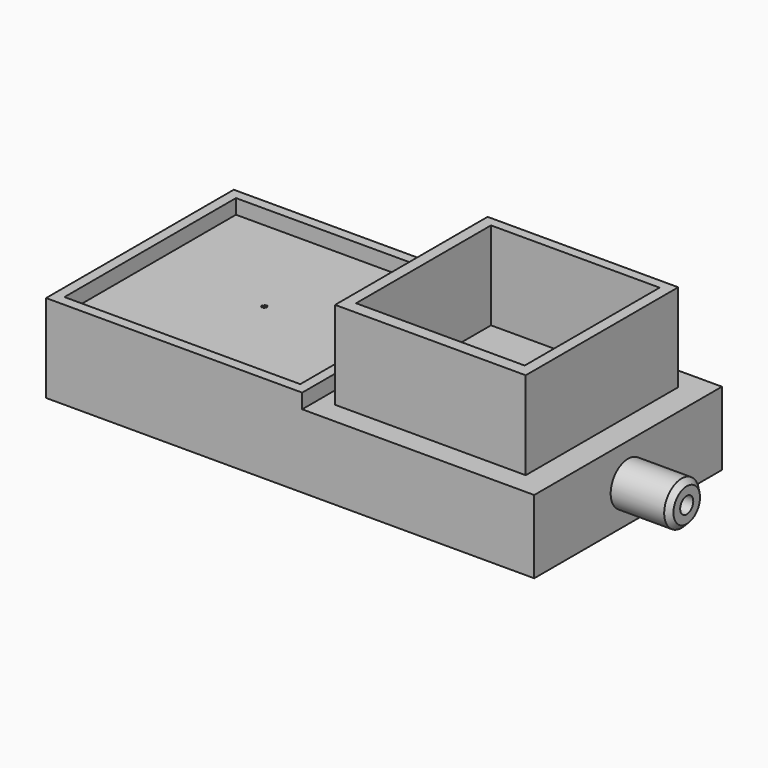
from build123d import *

# Parameters (mm, degrees)
F0_W      = 34.9287392313
F0_H      = 32
F0_W_2    = 32.1578574658
F0_H_2    = 29.2369164526
F0_W_3    = 31.648522869
F0_W_4    = 26
F0_H_3    = 26
F0_R      = 0.092316022
F0_R_2    = 0.0979069207
F0_R_3    = 0.103754176
F0_R_4    = 0.0980954436
F0_R_5    = 0.0966883049
F0_R_6    = 0.10446749
F0_R_7    = 0.1013580247
F0_W_5    = 23
F0_H_4    = 23
F1_DEPTH  = 10
F2_DEPTH  = 2
F3_DEPTH  = 12
F4_R      = 1.1151905594
F5_DEPTH  = 51
F4_R_2    = 2.9667518112
F6_DEPTH  = 8
F7_SIZE   = 0.7
F8_DEPTH  = 1
F10_R     = 0.4707857642
F11_DEPTH = 4


with BuildPart() as f1:
    # F0 (on Top) → F1 (new body)
    with BuildSketch(Plane.XY):
        with Locations((-15.8242614345, 0)):
            Rectangle(F0_W, F0_H)
        with Locations((-15.8211605012, 0.0195009634)):
            Rectangle(F0_W_2, F0_H_2, mode=Mode.SUBTRACT)
        with Locations((17.4643696156, 0)):
            Rectangle(F0_W_3, F0_H)
        with Locations((16.7290959507, 0)):
            Rectangle(F0_W_4, F0_H_3, mode=Mode.SUBTRACT)
        with Locations((-15.8211605012, 0.0195009634)):
            Rectangle(F0_W_2, F0_H_2)
        with Locations((-16.4775699377, -0.2384704421)):
            Circle(F0_R, mode=Mode.SUBTRACT)
        with Locations((-16.1935091019, -0.2361788647)):
            Circle(F0_R_2, mode=Mode.SUBTRACT)
        with Locations((-16.6078936309, 0.000503382)):
            Circle(F0_R_3, mode=Mode.SUBTRACT)
        with Locations((-16.3381490856, 0)):
            Circle(F0_R_4, mode=Mode.SUBTRACT)
        with Locations((-16.4667107165, 0.2449084714)):
            Circle(F0_R_5, mode=Mode.SUBTRACT)
        with Locations((-16.1935091019, 0.2444714482)):
            Circle(F0_R_6, mode=Mode.SUBTRACT)
        with Locations((-16.0595625639, 0)):
            Circle(F0_R_7, mode=Mode.SUBTRACT)
        with Locations((16.7290959507, 0)):
            Rectangle(F0_W_4, F0_H_3)
        with Locations((16.7408101037, 0.1883851588)):
            Rectangle(F0_W_5, F0_H_4, mode=Mode.SUBTRACT)
        with Locations((16.7408101037, 0.1883851588)):
            Rectangle(F0_W_5, F0_H_4)
        with Locations((-16.1935091019, 0.2444714482)):
            Circle(F0_R_6)
        with Locations((-16.6078936309, 0.000503382)):
            Circle(F0_R_3)
        with Locations((-16.0595625639, 0)):
            Circle(F0_R_7)
        with Locations((-16.3381490856, 0)):
            Circle(F0_R_4)
        with Locations((-16.1935091019, -0.2361788647)):
            Circle(F0_R_2)
        with Locations((-16.4667107165, 0.2449084714)):
            Circle(F0_R_5)
        with Locations((-16.4775699377, -0.2384704421)):
            Circle(F0_R)
    extrude(amount=-F1_DEPTH)

    # F0 (on Top) → F2 (join)
    with BuildSketch(Plane.XY):
        with Locations((-15.8242614345, 0)):
            Rectangle(F0_W, F0_H)
        with Locations((-15.8211605012, 0.0195009634)):
            Rectangle(F0_W_2, F0_H_2, mode=Mode.SUBTRACT)
    extrude(amount=F2_DEPTH)

    # F0 (on Top) → F3 (join)
    with BuildSketch(Plane.XY):
        with Locations((16.7290959507, 0)):
            Rectangle(F0_W_4, F0_H_3)
        with Locations((16.7408101037, 0.1883851588)):
            Rectangle(F0_W_5, F0_H_4, mode=Mode.SUBTRACT)
    extrude(amount=F3_DEPTH)

    # F4 (on face) → F5 (cut)
    with BuildSketch(Plane.YZ.offset(33.2886310501)):
        with Locations((0, -5.1095909439)):
            Circle(F4_R)
    extrude(amount=-F5_DEPTH, mode=Mode.SUBTRACT)

    # F4 (on face) → F6 (join)
    with BuildSketch(Plane.YZ.offset(33.2886310501)):
        with Locations((0, -5.1095909439)):
            Circle(F4_R_2)
        with Locations((0, -5.1095909439)):
            Circle(F4_R, mode=Mode.SUBTRACT)
    extrude(amount=F6_DEPTH)

    # F7
    f7_edges = [f1.edges().sort_by_distance(p)[0] for p in [
        (41.288631, -2.966752, -5.109591),
    ]]
    chamfer(f7_edges, length=F7_SIZE)

    # F0 (on Top) → F8 (cut)
    with BuildSketch(Plane.XY):
        with Locations((-16.4667107165, 0.2449084714)):
            Circle(F0_R_5)
        with Locations((-16.1935091019, 0.2444714482)):
            Circle(F0_R_6)
        with Locations((-16.0595625639, 0)):
            Circle(F0_R_7)
        with Locations((-16.1935091019, -0.2361788647)):
            Circle(F0_R_2)
        with Locations((-16.4775699377, -0.2384704421)):
            Circle(F0_R)
        with Locations((-16.6078936309, 0.000503382)):
            Circle(F0_R_3)
        with Locations((-16.3381490856, 0)):
            Circle(F0_R_4)
    extrude(amount=-F8_DEPTH, mode=Mode.SUBTRACT)

    # F10 (on offset) → F11 (cut)
    with BuildSketch(Plane.XY.offset(-1)):
        with Locations((-16.3349304348, -0.0002074475)):
            Circle(F10_R)
    extrude(amount=-F11_DEPTH, mode=Mode.SUBTRACT)


solid = f1.part
